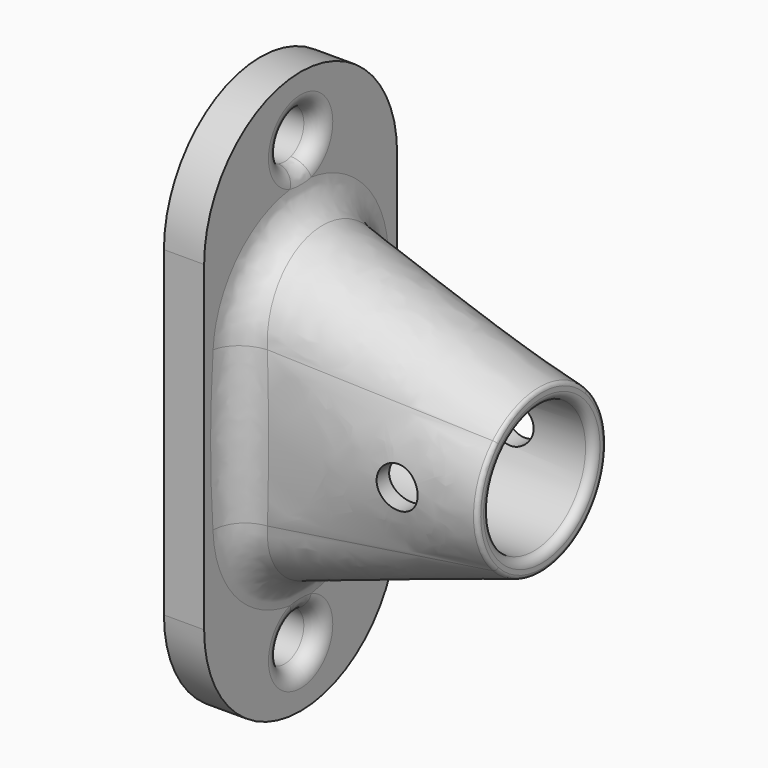
from build123d import *

# Parameters (mm, degrees)
SKETCH016_R          = 10
PAD006_DEPTH         = 5
FILLET001_R          = 4
SKETCH018_R          = 3
POCKET005_DEPTH      = 5.001
FILLET002_R          = 2
SKETCH019_R          = 8.05
POCKET006_DEPTH      = 28
FILLET003_R          = 1
FILLET004_R          = 0.5
SKETCH020_R          = 2.55
POCKET007_DEPTH      = 15.001
POCKET007_DEPTH_BACK = 15.001


with BuildPart() as part:
    # Sketch015 → AdditiveLoft section 0
    with BuildSketch(Plane.YZ):
        with BuildLine():
            ThreePointArc((10, 10), (0, 20), (-10, 10))
            Line((-10, 10), (-10, -10))
            ThreePointArc((-10, -10), (0, -20), (10, -10))
            Line((10, -10), (10, 10))
        make_face()
    # Sketch016 → AdditiveLoft section 1
    with BuildSketch(Plane.YZ.offset(30)):
        Circle(SKETCH016_R)
    loft()

    # Sketch017 → Pad006 (new body)
    with BuildSketch(Plane.YZ):
        with BuildLine():
            ThreePointArc((15, 20), (0, 35), (-15, 20))
            Line((-15, 20), (-15, -20))
            ThreePointArc((-15, -20), (0, -35), (15, -20))
            Line((15, -20), (15, 20))
        make_face()
    extrude(amount=-PAD006_DEPTH)

    # Fillet001
    fillet001_edges = [part.edges().sort_by_distance(p)[0] for p in [
        (0, 0, -20),
        (0, -10, 0),
        (0, 0, 20),
        (0, 10, 5),
        (0, 10, -5),
    ]]
    fillet(fillet001_edges, radius=FILLET001_R)

    # Sketch018 → Pocket005 (cut, through all)
    with BuildSketch(Plane.YZ):
        with Locations((0, 27.5)):
            Circle(SKETCH018_R)
        with Locations((0, -27.5)):
            Circle(SKETCH018_R)
    extrude(amount=-POCKET005_DEPTH, mode=Mode.SUBTRACT)

    # Fillet002
    fillet002_edges = [part.edges().sort_by_distance(p)[0] for p in [
        (0, -3, 27.5),
        (0, -3, -27.5),
    ]]
    fillet(fillet002_edges, radius=FILLET002_R)

    # Sketch019 → Pocket006 (cut)
    with BuildSketch(Plane.YZ.offset(30)):
        Circle(SKETCH019_R)
    extrude(amount=-POCKET006_DEPTH, mode=Mode.SUBTRACT)

    # Fillet003
    fillet003_edges = [part.edges().sort_by_distance(p)[0] for p in [
        (30, -8.05, 0),
    ]]
    fillet(fillet003_edges, radius=FILLET003_R)

    # Fillet004
    fillet004_edges = [part.edges().sort_by_distance(p)[0] for p in [
        (30, -10, 0),
        (30, 0, 10),
        (30, 9.238795, 3.826834),
        (30, 9.238795, -3.826834),
        (30, 0, -10),
    ]]
    fillet(fillet004_edges, radius=FILLET004_R)

    # Sketch020 → Pocket007 (cut, two sides)
    with BuildSketch(Plane.XZ) as pocket007_sk:
        with Locations((20, 0)):
            Circle(SKETCH020_R)
    extrude(amount=-POCKET007_DEPTH, mode=Mode.SUBTRACT)
    extrude(pocket007_sk.sketch, amount=POCKET007_DEPTH_BACK, mode=Mode.SUBTRACT)


solid = part.part
